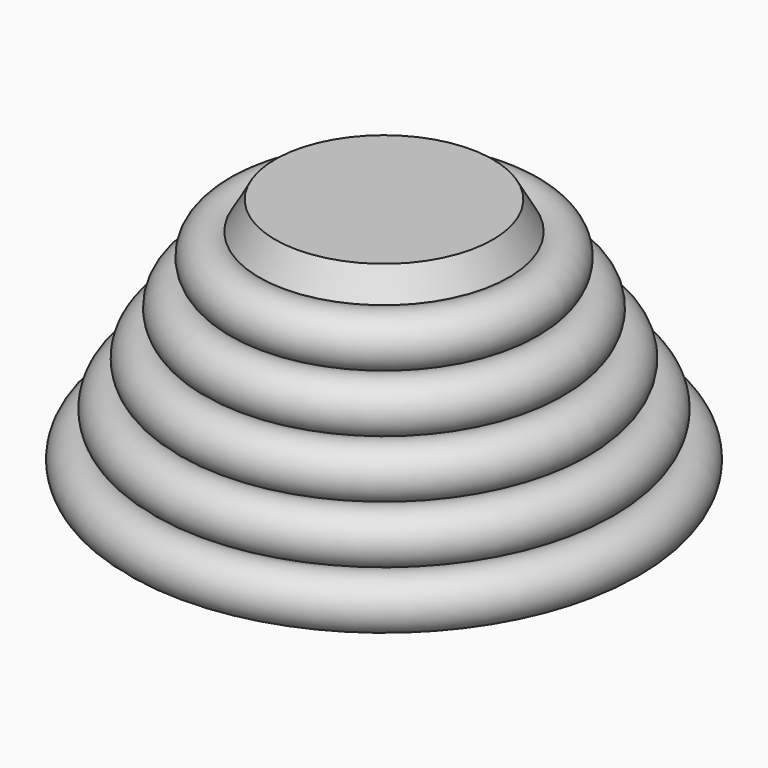
from build123d import *


with BuildPart() as f1:
    # F0 (on Right) → F1 (revolve)
    with BuildSketch(Plane.YZ):
        with BuildLine():
            Line((-25.4, 57.15), (0, 57.15))
            Line((0, 57.15), (0, 62.23))
            Line((0, 62.23), (-26.9875, 62.23))
            Line((-26.9875, 62.23), (-30.939126, 55.253077))
            ThreePointArc((-30.939126, 55.253077), (-39.593887, 52.857222), (-37.198032, 44.202462))
            ThreePointArc((-37.198032, 44.202462), (-45.852792, 41.806607), (-43.456937, 33.151846))
            ThreePointArc((-43.456937, 33.151846), (-52.111698, 30.755991), (-49.715843, 22.101231))
            ThreePointArc((-49.715843, 22.101231), (-58.370603, 19.705376), (-55.974749, 11.050615))
            ThreePointArc((-55.974749, 11.050615), (-64.629509, 8.65476), (-62.233654, 0))
            Line((-62.233654, 0), (-57.153654, 0))
            Line((-57.153654, 0), (-25.4, 57.15))
        make_face()
    revolve(axis=Axis((0, 0, 28.575), (0, 0, 1)))


solid = f1.part
